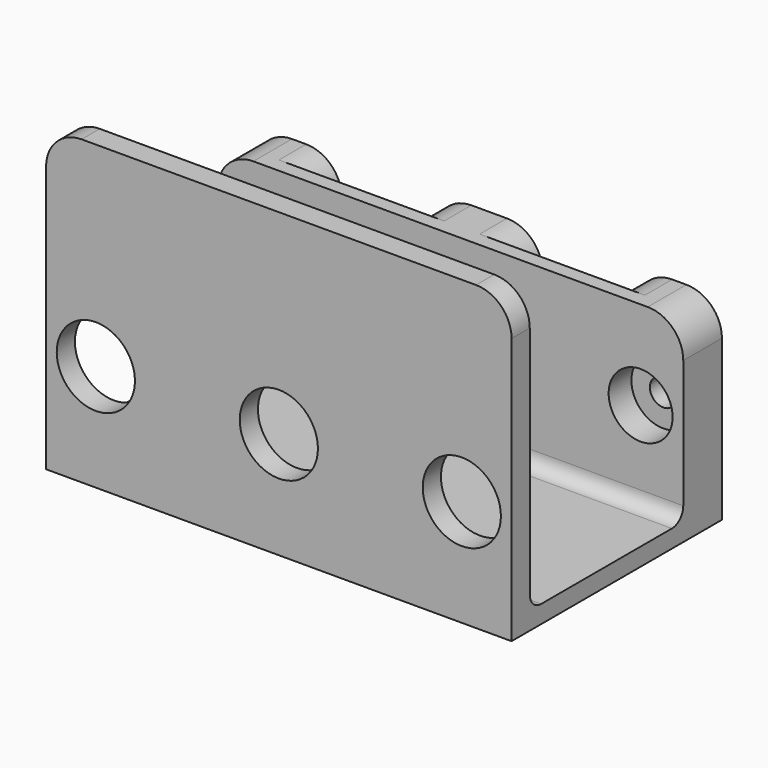
from build123d import *

# Parameters (mm, degrees)
F0_W     = 13.25
F0_H     = 4.8
F0_W_2   = 65.5
F0_H_2   = 27
F0_H_3   = 3.2
F1_DEPTH = 2.5
F2_DEPTH = 27.5
F3_DEPTH = 42.5
F4_R     = 1.9
F5_DEPTH = 6.801
F4_R_2   = 4.5
F6_DEPTH = 4
F4_R_3   = 5.5
F7_DEPTH = 30.201
F8_R     = 5
F9_R     = 2


with BuildPart() as f1:
    # F0 (on Top) → F1 (new body)
    with BuildSketch(Plane.XY):
        Polygon((-20.75, 18.5), (-32.75, 18.5), (-32.75, 11.7), (32.75, 11.7), (32.75, 18.5), (20.75, 18.5), (20.75, 13.7), (7.5, 13.7), (7.5, 18.5), (-7.5, 18.5), (-7.5, 13.7), (-20.75, 13.7), align=None)
        with Locations((-14.125, 16.1)):
            Rectangle(F0_W, F0_H)
        with Locations((0, -1.8)):
            Rectangle(F0_W_2, F0_H_2)
        with Locations((0, -16.9)):
            Rectangle(F0_W_2, F0_H_3)
        with Locations((14.125, 16.1)):
            Rectangle(F0_W, F0_H)
    extrude(amount=F1_DEPTH)

    # F0 (on Top) → F2 (join)
    with BuildSketch(Plane.XY):
        Polygon((-20.75, 18.5), (-32.75, 18.5), (-32.75, 11.7), (32.75, 11.7), (32.75, 18.5), (20.75, 18.5), (20.75, 13.7), (7.5, 13.7), (7.5, 18.5), (-7.5, 18.5), (-7.5, 13.7), (-20.75, 13.7), align=None)
    extrude(amount=F2_DEPTH)

    # F0 (on Top) → F3 (join)
    with BuildSketch(Plane.XY):
        with Locations((0, -16.9)):
            Rectangle(F0_W_2, F0_H_3)
    extrude(amount=F3_DEPTH)

    # F4 (on face) → F5 (cut, through all)
    with BuildSketch(Plane.XZ.offset(-11.7)):
        with Locations((-26.75, 15)):
            Circle(F4_R)
        with Locations((0, 15)):
            Circle(F4_R)
        with Locations((26.75, 15)):
            Circle(F4_R)
    extrude(amount=-F5_DEPTH, mode=Mode.SUBTRACT)

    # F4 (on face) → F6 (cut)
    with BuildSketch(Plane.XZ.offset(-11.7)):
        with BuildLine():
            ThreePointArc((-31.25, 15), (-26.75, 10.5), (-22.25, 15))
            ThreePointArc((-22.25, 15), (-26.75, 19.5), (-31.25, 15))
        make_face()
        with Locations((-26.75, 15)):
            Circle(F4_R, mode=Mode.SUBTRACT)
        with Locations((26.75, 15)):
            Circle(F4_R_2)
        with Locations((26.75, 15)):
            Circle(F4_R, mode=Mode.SUBTRACT)
        with Locations((0, 15)):
            Circle(F4_R_2)
        with Locations((0, 15)):
            Circle(F4_R, mode=Mode.SUBTRACT)
    extrude(amount=-F6_DEPTH, mode=Mode.SUBTRACT)

    # F4 (on face) → F7 (cut, through all)
    with BuildSketch(Plane.XZ.offset(-11.7)):
        with Locations((25.75, 15)):
            Circle(F4_R_3)
        with Locations((26.75, 15)):
            Circle(F4_R_2, mode=Mode.SUBTRACT)
        with Locations((0, 15)):
            Circle(F4_R_3)
        with Locations((0, 15)):
            Circle(F4_R_2, mode=Mode.SUBTRACT)
        with BuildLine():
            ThreePointArc((-20.25, 15), (-25.75, 20.5), (-31.25, 15))
            ThreePointArc((-31.25, 15), (-25.75, 9.5), (-20.25, 15))
        make_face()
        with BuildLine():
            ThreePointArc((-31.25, 15), (-26.75, 19.5), (-22.25, 15))
            ThreePointArc((-22.25, 15), (-26.75, 10.5), (-31.25, 15))
        make_face(mode=Mode.SUBTRACT)
        with Locations((26.75, 15)):
            Circle(F4_R_2)
        with Locations((26.75, 15)):
            Circle(F4_R, mode=Mode.SUBTRACT)
        with Locations((0, 15)):
            Circle(F4_R_2)
        with Locations((0, 15)):
            Circle(F4_R, mode=Mode.SUBTRACT)
        with BuildLine():
            ThreePointArc((-31.25, 15), (-26.75, 10.5), (-22.25, 15))
            ThreePointArc((-22.25, 15), (-26.75, 19.5), (-31.25, 15))
        make_face()
        with Locations((-26.75, 15)):
            Circle(F4_R, mode=Mode.SUBTRACT)
        with Locations((26.75, 15)):
            Circle(F4_R)
        with Locations((0, 15)):
            Circle(F4_R)
        with Locations((-26.75, 15)):
            Circle(F4_R)
    extrude(amount=F7_DEPTH, mode=Mode.SUBTRACT)

    # F8
    f8_edges = [f1.edges().sort_by_distance(p)[0] for p in [
        (-32.75, 15.1, 27.5),
        (32.75, 15.1, 27.5),
        (20.75, 16.1, 27.5),
        (7.5, 16.1, 27.5),
        (-7.5, 16.1, 27.5),
        (-20.75, 16.1, 27.5),
        (32.75, -16.9, 42.5),
        (-32.75, -16.9, 42.5),
    ]]
    fillet(f8_edges, radius=F8_R)

    # F9
    f9_edges = [f1.edges().sort_by_distance(p)[0] for p in [
        (0, -15.3, 2.5),
        (0, 11.7, 2.5),
    ]]
    fillet(f9_edges, radius=F9_R)


solid = f1.part
